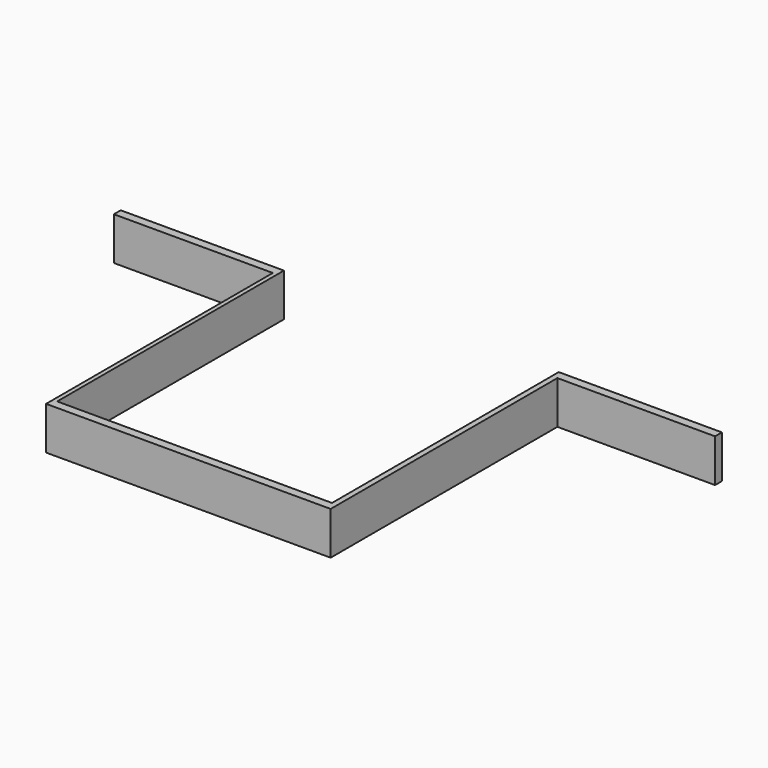
from build123d import *

# Parameters (mm, degrees)
F0_W     = 88.9
F0_H     = 6.35
F1_DEPTH = 43.18
F2_W     = 40.64
F2_H     = 6.35
F3_DEPTH = 41.91
F4_W     = 23.5030670434
F4_H     = 6.35
F4_W_2   = 0.0459178567
F5_DEPTH = 41.91
F6_W     = 23.3165659726
F6_H     = 6.35
F7_DEPTH = 41.91


with BuildPart() as f1:
    # F0 (on Front) → F1 (new body)
    with BuildSketch(Plane.XZ):
        Rectangle(F0_W, F0_H)
    extrude(amount=F1_DEPTH)

    # F2 (on face) → F3 (cut)
    with BuildSketch(Plane(origin=(0, 0, 0), x_dir=(-1, 0, 0), z_dir=(0, 1, 0))):
        Rectangle(F2_W, F2_H)
    extrude(amount=-F3_DEPTH, mode=Mode.SUBTRACT)

    # F4 (on face) → F5 (cut)
    with BuildSketch(Plane.XZ.offset(43.18)):
        with Locations((-32.6984664783, 0)):
            Rectangle(F4_W, F4_H)
        with Locations((-44.4729589283, 0)):
            Rectangle(F4_W_2, F4_H)
    extrude(amount=-F5_DEPTH, mode=Mode.SUBTRACT)

    # F6 (on face) → F7 (cut)
    with BuildSketch(Plane.XZ.offset(43.18)):
        with Locations((32.7917170137, 0)):
            Rectangle(F6_W, F6_H)
    extrude(amount=-F7_DEPTH, mode=Mode.SUBTRACT)


solid = f1.part
